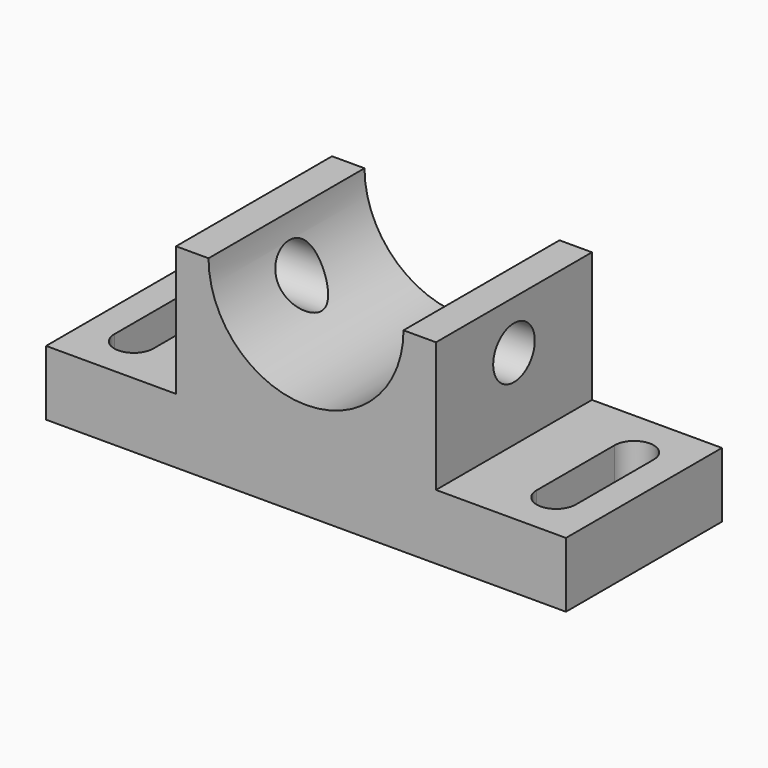
from build123d import *

# Parameters (mm, degrees)
F1_DEPTH = 600
F2_R     = 80
F3_DEPTH = 1200.001
F5_DEPTH = 200.001


with BuildPart() as f1:
    # F0 (on Front) → F1 (new body)
    with BuildSketch(Plane.XZ):
        with BuildLine():
            Line((-800, 100), (-800, -100))
            Line((-800, -100), (800, -100))
            Line((800, -100), (800, 100))
            Line((800, 100), (400, 100))
            Line((400, 100), (400, 500))
            Line((400, 500), (300, 500))
            ThreePointArc((300, 500), (0, 200), (-300, 500))
            Line((-300, 500), (-400, 500))
            Line((-400, 500), (-400, 100))
            Line((-400, 100), (-800, 100))
        make_face()
    extrude(amount=F1_DEPTH)

    # F2 (on face) → F3 (cut, through all)
    with BuildSketch(Plane(origin=(-400, 0, 0), x_dir=(0, -1, 0), z_dir=(-1, 0, 0))):
        with Locations((300, 350)):
            Circle(F2_R)
    extrude(amount=-F3_DEPTH, mode=Mode.SUBTRACT)

    # F4 (on face) → F5 (cut, through all)
    with BuildSketch(Plane.XY.offset(100)):
        with BuildLine():
            ThreePointArc((590, -450), (650, -510), (710, -450))
            Line((710, -450), (710, -150))
            ThreePointArc((710, -150), (650, -90), (590, -150))
            Line((590, -150), (590, -450))
        make_face()
        with BuildLine():
            Line((-710, -150), (-710, -450))
            ThreePointArc((-710, -450), (-650, -510), (-590, -450))
            Line((-590, -450), (-590, -150))
            ThreePointArc((-590, -150), (-650, -90), (-710, -150))
        make_face()
    extrude(amount=-F5_DEPTH, mode=Mode.SUBTRACT)


solid = f1.part
